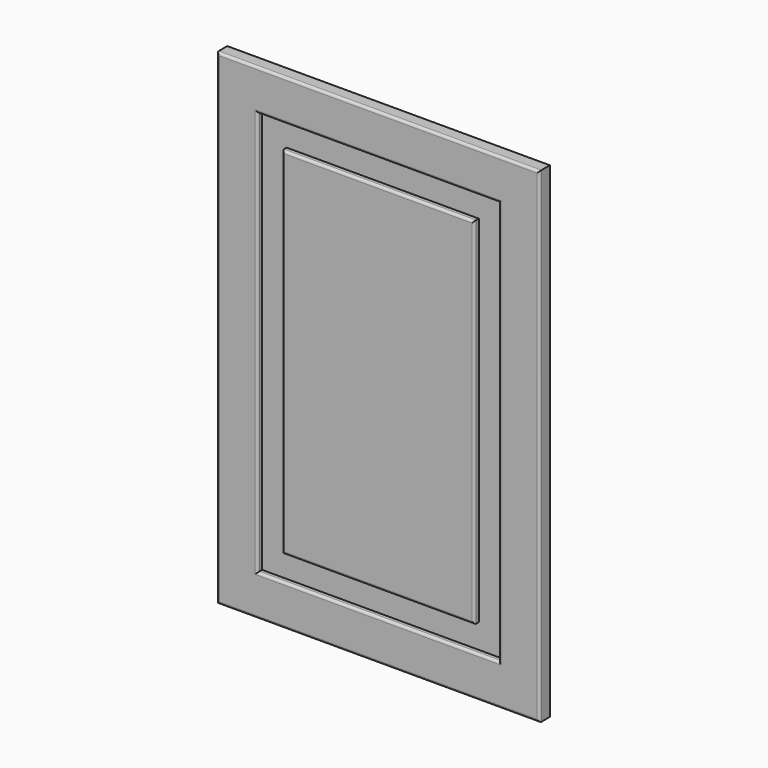
from build123d import *

# Parameters (mm, degrees)
F0_W      = 44.656470418
F0_H      = 33.8078811765
F1_DEPTH  = 16
F2_DEPTH  = 796
F3_DEPTH  = 196
F4_W      = 68.9578056335
F4_H      = 493.6993122101
F5_DEPTH  = 7
F6_DEPTH  = 9.7
F7_DEPTH  = 99.33
F8_DEPTH  = 99.33
F9_DEPTH  = 17.34
F10_DEPTH = 102.97
F11_W     = 35.2807044983
F11_H     = 492.0964837074
F12_DEPTH = 7
F13_DEPTH = 37.27
F14_DEPTH = 6.58
F15_DEPTH = 106.63
F16_DEPTH = 5.87
F17_DEPTH = 200
F18_DEPTH = 200
F19_DEPTH = 200
F20_DEPTH = 600
F21_DEPTH = 600
F22_DEPTH = 600
F23_DEPTH = 200
F24_DEPTH = 200
F25_DEPTH = 200
F26_DEPTH = 200
F27_DEPTH = 200
F28_DEPTH = 200
F29_R     = 3


with BuildPart() as f1:
    # F0 (on Front) → F1 (new body)
    with BuildSketch(Plane.XZ):
        with Locations((22.328235209, 16.9039405882)):
            Rectangle(F0_W, F0_H)
    extrude(amount=F1_DEPTH)

    # F2 (add): a face of the model
    f2_faces = [f1.faces().sort_by_distance(p)[0] for p in [
        (22.328235209, -8, 0),
    ]]
    extrude(f2_faces, amount=-F2_DEPTH)

    # F3 (add): a face of the model
    f3_faces = [f1.faces().sort_by_distance(p)[0] for p in [
        (0, -8, 398),
    ]]
    extrude(f3_faces, amount=-F3_DEPTH)

    # F4 (on face) → F5 (cut)
    with BuildSketch(Plane.XZ.offset(16)):
        with Locations((94.1769480705, 399.8196721077)):
            Rectangle(F4_W, F4_H)
    extrude(amount=-F5_DEPTH, mode=Mode.SUBTRACT)

    # F6 (cut): a face of the model
    f6_faces = [f1.faces().sort_by_distance(p)[0] for p in [
        (59.6980452538, -12.5, 399.8196721077),
    ]]
    extrude(f6_faces, amount=-F6_DEPTH, mode=Mode.SUBTRACT)

    # F7 (add): a face of the model
    f7_faces = [f1.faces().sort_by_distance(p)[0] for p in [
        (89.3269480705, -12.5, 646.6693282127),
    ]]
    extrude(f7_faces, amount=-F7_DEPTH)

    # F8 (cut): a face of the model
    f8_faces = [f1.faces().sort_by_distance(p)[0] for p in [
        (89.3269480705, -12.5, 646.6693282127),
    ]]
    extrude(f8_faces, amount=-F8_DEPTH, mode=Mode.SUBTRACT)

    # F9 (cut): a face of the model
    f9_faces = [f1.faces().sort_by_distance(p)[0] for p in [
        (128.6558508873, -12.5, 449.4846721077),
    ]]
    extrude(f9_faces, amount=-F9_DEPTH, mode=Mode.SUBTRACT)

    # F10 (cut): a face of the model
    f10_faces = [f1.faces().sort_by_distance(p)[0] for p in [
        (97.9969480705, -12.5, 152.9700160027),
    ]]
    extrude(f10_faces, amount=-F10_DEPTH, mode=Mode.SUBTRACT)

    # F11 (on face) → F12 (join)
    with BuildSketch(Plane.XZ.offset(9)):
        with Locations((91.7714834213, 432.6795041561)):
            Rectangle(F11_W, F11_H)
    extrude(amount=F12_DEPTH)

    # F13 (add): a face of the model
    f13_faces = [f1.faces().sort_by_distance(p)[0] for p in [
        (91.7714834213, -12.5, 678.7277460098),
    ]]
    extrude(f13_faces, amount=F13_DEPTH)

    # F14 (add): a face of the model
    f14_faces = [f1.faces().sort_by_distance(p)[0] for p in [
        (109.4118356705, -12.5, 451.3145041561),
    ]]
    extrude(f14_faces, amount=F14_DEPTH)

    # F15 (add): a face of the model
    f15_faces = [f1.faces().sort_by_distance(p)[0] for p in [
        (95.0614834213, -12.5, 186.6312623024),
    ]]
    extrude(f15_faces, amount=F15_DEPTH)

    # F16 (cut): a face of the model
    f16_faces = [f1.faces().sort_by_distance(p)[0] for p in [
        (74.1311311722, -12.5, 397.9995041561),
    ]]
    extrude(f16_faces, amount=-F16_DEPTH, mode=Mode.SUBTRACT)

    # F17 (add): a face of the model
    f17_faces = [f1.faces().sort_by_distance(p)[0] for p in [
        (196, -8, 398),
    ]]
    extrude(f17_faces, amount=F17_DEPTH)

    # F18 (cut): a face of the model
    f18_faces = [f1.faces().sort_by_distance(p)[0] for p in [
        (145.9958508873, -12.5, 397.9996721077),
    ]]
    extrude(f18_faces, amount=-F18_DEPTH, mode=Mode.SUBTRACT)

    # F19 (add): a face of the model
    f19_faces = [f1.faces().sort_by_distance(p)[0] for p in [
        (115.9918356705, -12.5, 397.9995041561),
    ]]
    extrude(f19_faces, amount=F19_DEPTH)

    # F20 (cut): a face of the model
    f20_faces = [f1.faces().sort_by_distance(p)[0] for p in [
        (197.9964834213, -12.5, 80.0012623024),
    ]]
    extrude(f20_faces, amount=-F20_DEPTH, mode=Mode.SUBTRACT)

    # F21 (add): a face of the model
    f21_faces = [f1.faces().sort_by_distance(p)[0] for p in [
        (197.9969480705, -12.5, 50.0000160027),
    ]]
    extrude(f21_faces, amount=F21_DEPTH)

    # F22 (cut): a face of the model
    f22_faces = [f1.faces().sort_by_distance(p)[0] for p in [
        (198, -8, 0),
    ]]
    extrude(f22_faces, amount=-F22_DEPTH, mode=Mode.SUBTRACT)

    # F23 (add): a face of the model
    f23_faces = [f1.faces().sort_by_distance(p)[0] for p in [
        (198, -8, 600),
    ]]
    extrude(f23_faces, amount=F23_DEPTH)

    # F24 (cut): a face of the model
    f24_faces = [f1.faces().sort_by_distance(p)[0] for p in [
        (197.9969480705, -12.5, 650.0000160027),
    ]]
    extrude(f24_faces, amount=-F24_DEPTH, mode=Mode.SUBTRACT)

    # F25 (add): a face of the model
    f25_faces = [f1.faces().sort_by_distance(p)[0] for p in [
        (197.9964834213, -12.5, 680.0012623024),
    ]]
    extrude(f25_faces, amount=F25_DEPTH)

    # F26 (add): a face of the model
    f26_faces = [f1.faces().sort_by_distance(p)[0] for p in [
        (198, -8, 796),
    ]]
    extrude(f26_faces, amount=F26_DEPTH)

    # F27 (cut): a face of the model
    f27_faces = [f1.faces().sort_by_distance(p)[0] for p in [
        (197.9969480705, -12.5, 745.9993282127),
    ]]
    extrude(f27_faces, amount=-F27_DEPTH, mode=Mode.SUBTRACT)

    # F28 (add): a face of the model
    f28_faces = [f1.faces().sort_by_distance(p)[0] for p in [
        (197.9964834213, -12.5, 715.9977460098),
    ]]
    extrude(f28_faces, amount=F28_DEPTH)

    # F29
    f29_edges = [f1.edges().sort_by_distance(p)[0] for p in [
        (0, -16, 698),
        (198, -16, 400),
        (396, -16, 698),
        (198, -16, 996),
        (197.996948, -16, 450.000016),
        (49.998045, -16, 697.999672),
        (197.996948, -16, 945.999328),
        (345.995851, -16, 697.999672),
        (197.996483, -16, 480.001262),
        (80.001131, -16, 697.999504),
        (197.996483, -16, 915.997746),
        (315.991836, -16, 697.999504),
    ]]
    fillet(f29_edges, radius=F29_R)


solid = f1.part
